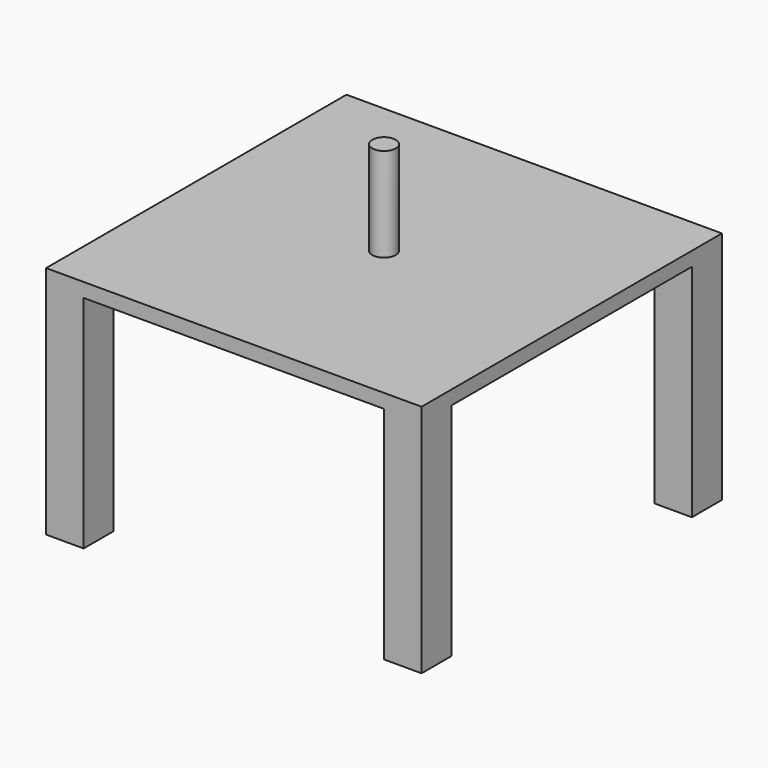
from build123d import *

# Parameters (mm, degrees)
F0_W     = 101.6
F0_H     = 101.6
F1_DEPTH = 63.5
F2_W     = 81.28
F2_H     = 81.28
F2_W_2   = 10.16
F2_H_2   = 10.16
F3_DEPTH = 59.69
F5_DEPTH = 63.501
F6_R     = 3.175
F7_DEPTH = 25.4


with BuildPart() as f1:
    # F0 (on Top) → F1 (new body)
    with BuildSketch(Plane.XY):
        with Locations((-50.8, -50.8)):
            Rectangle(F0_W, F0_H)
    extrude(amount=F1_DEPTH)

    # F2 (on face) → F3 (cut)
    with BuildSketch(Plane(origin=(0, 0, 0), x_dir=(1, 0, 0), z_dir=(0, 0, -1))):
        with Locations((-50.8, 50.8)):
            Rectangle(F2_W, F2_H)
        with Locations((-5.08, 50.8)):
            Rectangle(F2_W_2, F2_H)
        with Locations((-50.8, 5.08)):
            Rectangle(F2_W, F2_H_2)
        with Locations((-96.52, 50.8)):
            Rectangle(F2_W_2, F2_H)
        with Locations((-50.8, 96.52)):
            Rectangle(F2_W, F2_H_2)
    extrude(amount=-F3_DEPTH, mode=Mode.SUBTRACT)

    # F4 (on face) → F5 (cut, through all)
    with BuildSketch(Plane.XY.offset(63.5)):
        with BuildLine():
            ThreePointArc((-47.625, -50.8), (-49.5849801022, -47.8666824843), (-53.0450640303, -48.5549359697))
            Line((-53.0450640303, -48.5549359697), (-48.5549359697, -53.0450640303))
            ThreePointArc((-48.5549359697, -53.0450640303), (-47.8666824843, -52.0150198978), (-47.625, -50.8))
        make_face()
        with BuildLine():
            Line((-48.5549359697, -53.0450640303), (-53.0450640303, -48.5549359697))
            ThreePointArc((-53.0450640303, -48.5549359697), (-53.0450640303, -53.0450640303), (-48.5549359697, -53.0450640303))
        make_face()
    extrude(amount=-F5_DEPTH, mode=Mode.SUBTRACT)

    # F6 (on face) → F7 (join, symmetric)
    with BuildSketch(Plane.XY.offset(63.5)):
        with Locations((-50.8, -50.8)):
            Circle(F6_R)
    extrude(amount=F7_DEPTH, both=True)


solid = f1.part
